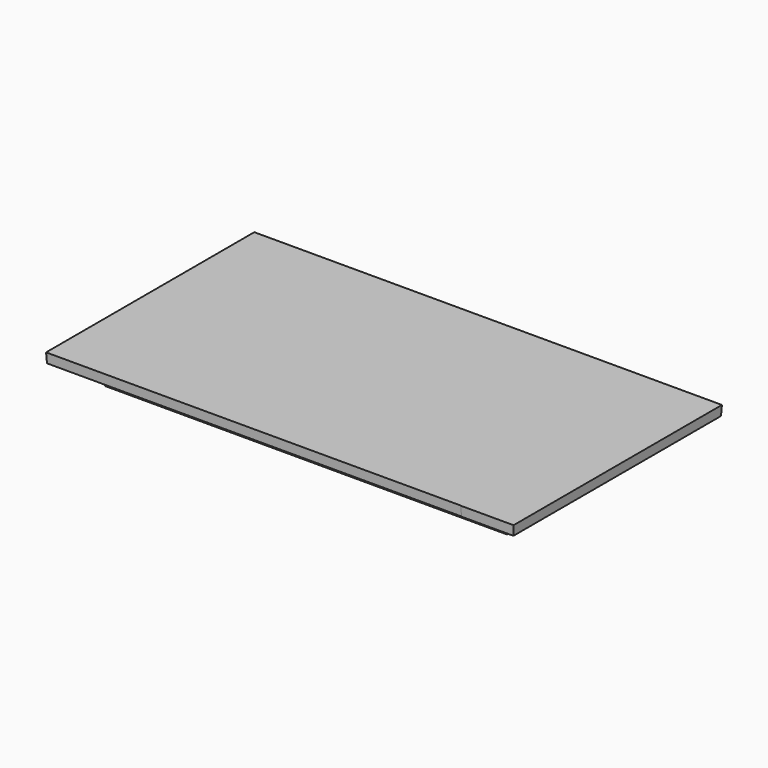
from build123d import *

# Parameters (mm, degrees)
F0_W     = 1422.4
F0_H     = 203.2
F1_DEPTH = 38.1
F1_TAPER = -3
F2_W     = 1576.7967363907
F2_H     = 763.9967363907
F3_DEPTH = 88.9


with BuildPart() as f1:
    # F0 (on Top) → F1 (new body)
    with BuildSketch(Plane.XY):
        Polygon((805.0663658119, 1274.1255172766), (805.0663658119, 1070.9255172766), (805.0663658119, 867.7255172766), (805.0663658119, 664.5255172766), (805.0663658119, 461.3255172766), (805.0663658119, 258.1255172766), (805.0663658119, 257.2699136225), (1008.2663658119, 257.2699136225), (1008.2663658119, 1274.1255172766), align=None)
        with Locations((93.8663658119, 1172.5255172766)):
            Rectangle(F0_W, F0_H)
        with Locations((93.8663658119, 359.7255172766)):
            Rectangle(F0_W, F0_H)
        Polygon((-617.3336341881, 867.7255172766), (-617.3336341881, 1070.9255172766), (-617.3336341881, 1274.1255172766), (-820.5336341881, 1274.1255172766), (-820.5336341881, 258.1255172766), (-617.3336341881, 258.1255172766), (-617.3336341881, 461.3255172766), (-617.3336341881, 664.5255172766), align=None)
        with Locations((93.8663658119, 969.3255172766)):
            Rectangle(F0_W, F0_H)
        with Locations((93.8663658119, 766.1255172766)):
            Rectangle(F0_W, F0_H)
        with Locations((93.8663658119, 562.9255172766)):
            Rectangle(F0_W, F0_H)
    extrude(amount=F1_DEPTH, taper=F1_TAPER)

    # F2 (on face) → F3 (join)
    with BuildSketch(Plane(origin=(0, 0, 0), x_dir=(1, 0, 0), z_dir=(0, 0, -1))):
        with Locations((92.8679976166, -767.1238854719)):
            Rectangle(F2_W, F2_H)
        Polygon((-676.4803705788, -505.7755172766), (-676.4803705788, -404.1755172766), (-574.8803705788, -404.1755172766), (-473.2803705788, -404.1755172766), (-446.3396022156, -404.1755172766), (632.0755974487, -404.1755172766), (659.0163658119, -404.1755172766), (862.2163658119, -404.1755172766), (862.2163658119, -607.3755172766), (862.2163658119, -634.3162856398), (862.2163658119, -899.931485304), (862.2163658119, -926.8722536672), (862.2163658119, -1130.0722536672), (659.0163658119, -1130.0722536672), (632.0755974487, -1130.0722536672), (-446.3396022156, -1130.0722536672), (-473.2803705788, -1130.0722536672), (-676.4803705788, -1130.0722536672), (-676.4803705788, -926.8722536672), (-676.4803705788, -899.931485304), (-676.4803705788, -634.3162856398), (-676.4803705788, -607.3755172766), align=None, mode=Mode.SUBTRACT)
        Polygon((-446.3396022156, -404.1755172766), (-473.2803705788, -404.1755172766), (-574.8803705788, -505.7755172766), (-676.4803705788, -607.3755172766), (-676.4803705788, -634.3162856398), align=None)
        Polygon((-446.3396022156, -1130.0722536672), (-676.4803705788, -899.931485304), (-676.4803705788, -926.8722536672), (-473.2803705788, -1130.0722536672), align=None)
        Polygon((862.2163658119, -926.8722536672), (862.2163658119, -899.931485304), (632.0755974487, -1130.0722536672), (659.0163658119, -1130.0722536672), align=None)
        Polygon((659.0163658119, -404.1755172766), (632.0755974487, -404.1755172766), (862.2163658119, -634.3162856398), (862.2163658119, -607.3755172766), align=None)
    extrude(amount=F3_DEPTH)


solid = f1.part
